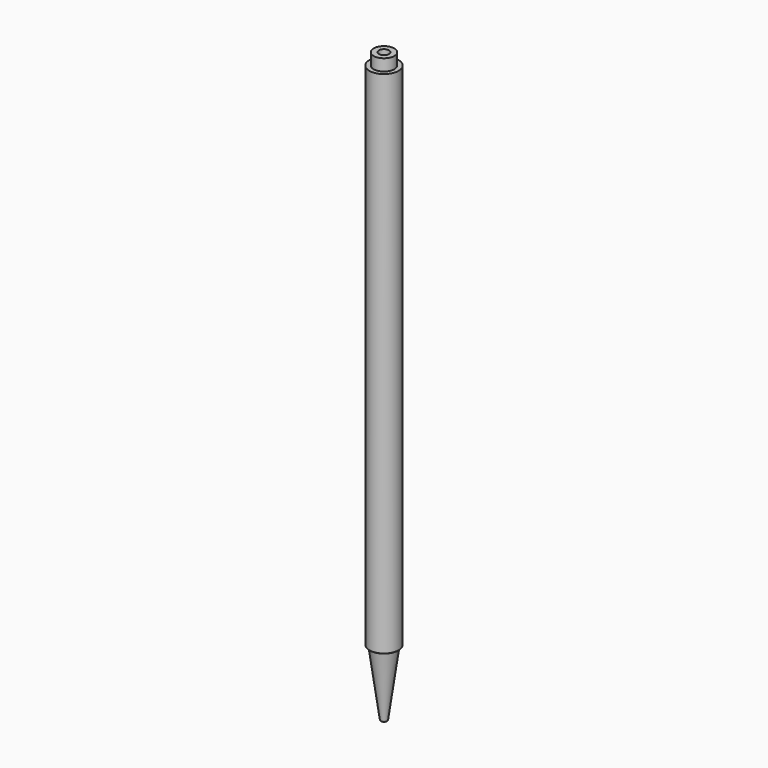
from build123d import *


with BuildPart() as f1:
    # F0 (on Front) → F1 (revolve)
    with BuildSketch(Plane.XZ):
        with BuildLine():
            Line((-13.25, 755), (-13.25, 740))
            Line((-13.25, 740), (-18.75, 740))
            Line((-18.75, 740), (-18.75, 86))
            ThreePointArc((-18.75, 86), (-18.457107, 85.292893), (-17.75, 85))
            Line((-17.75, 85), (-15.75, 85))
            Line((-15.75, 85), (-4.238613, 1.726134))
            ThreePointArc((-4.238613, 1.726134), (-3.571276, 0.492066), (-2.257452, 0))
            Line((-2.257452, 0), (0, 0))
            Line((0, 0), (0, 634))
            Line((0, 634), (-6.5, 634))
            Line((-6.5, 634), (-6.5, 755))
            Line((-6.5, 755), (-13.25, 755))
        make_face()
    revolve(axis=Axis((0, 0, 317), (0, 0, -1)))


solid = f1.part
